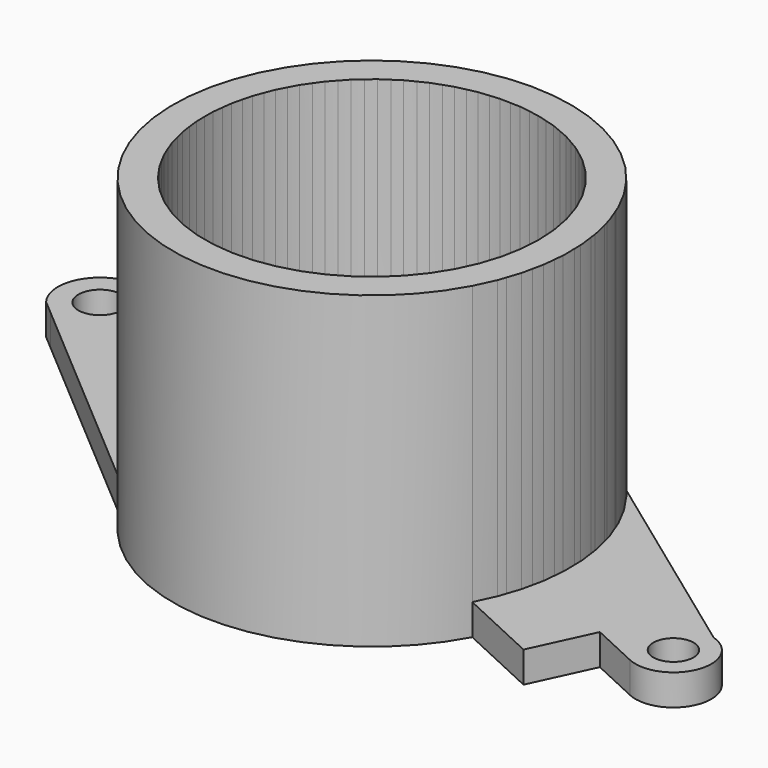
from build123d import *

# Parameters (mm, degrees)
F1_DEPTH    = 76.2
F2_DEPTH    = 31.75
F3_DEPTH    = 19.05
F4_DEPTH    = 7.62
F0_R        = 5.3237425143
F0_R_2      = 4.9534162061
F5_DEPTH    = 7.62
F3_FACE_W   = 8.5752790356
F3_FACE_H   = 19.05
F4_FACE_W   = 6.683049505
F4_FACE_H   = 7.62
F4_FACE_W_2 = 9.4312422922
F2_FACE_W   = 12.0087136189
F2_FACE_H   = 31.75


with BuildPart() as f1:
    # F0 (on Top) → F1 (new body)
    with BuildSketch(Plane.XY):
        with BuildLine():
            ThreePointArc((-34.7276751002, -22.1234954401), (-1.4817887575, 41.1492985412), (36.229000688, -19.5683412047))
            Line((36.229000688, -19.5683412047), (43.1768703502, -23.0616035662))
            ThreePointArc((43.1768703502, -23.0616035662), (48.6110092481, 5.5352725012), (36.79628914, 32.1383470443))
            ThreePointArc((36.79628914, 32.1383470443), (5.8376711749, 48.3955973291), (-28.0487168356, 39.767334425))
            Line((-28.0487168356, 39.767334425), (-33.4583891256, 35.3247881419))
            ThreePointArc((-33.4583891256, 35.3247881419), (-48.2846004863, 5.9882266817), (-41.1406287564, -26.0962563208))
            Line((-41.1406287564, -26.0962563208), (-34.7276751002, -22.1234954401))
        make_face()
    extrude(amount=F1_DEPTH)

    # F0 (on Top) → F5 (join)
    with BuildSketch(Plane.XY):
        with BuildLine():
            Line((-95.6883374581, 20.5591361861), (-41.1406287564, -26.0962563208))
            ThreePointArc((-41.1406287564, -26.0962563208), (-48.2846004863, 5.9882266817), (-33.4583891256, 35.3247881419))
            Line((-33.4583891256, 35.3247881419), (-56.8358898163, 16.1266513169))
            Line((-56.8358898163, 16.1266513169), (-84.1245320571, 37.6909004407))
            Line((-84.1245320571, 37.6909004407), (-84.4872106208, 37.977499196))
            ThreePointArc((-84.4872106208, 37.977499196), (-98.1053344669, 37.010885929), (-98.9951891018, 23.3875310917))
            Line((-98.9951891018, 23.3875310917), (-95.6883374581, 20.5591361861))
        make_face()
        with Locations((-90.7422751188, 29.6892039478)):
            Circle(F0_R, mode=Mode.SUBTRACT)
        with BuildLine():
            ThreePointArc((36.79628914, 32.1383470443), (48.6110092481, 5.5352725012), (43.1768703502, -23.0616035662))
            Line((43.1768703502, -23.0616035662), (63.2413849235, -32.3682539165))
            Line((63.2413849235, -32.3682539165), (70.1508525199, -17.47190474))
            Line((70.1508525199, -17.47190474), (81.9663336142, -22.9523538614))
            ThreePointArc((81.9663336142, -22.9523538614), (94.592598316, -17.8477131564), (88.663908183, -5.5867772071))
            Line((88.663908183, -5.5867772071), (36.79628914, 32.1383470443))
        make_face()
        with Locations((85.8907501141, -14.4915748388)):
            Circle(F0_R_2, mode=Mode.SUBTRACT)
    extrude(amount=F5_DEPTH)


with BuildPart() as f2:
    # F0 (on Top) → F2 (new body)
    with BuildSketch(Plane.XY):
        with BuildLine():
            ThreePointArc((-16.5150094424, -10.8409305661), (-0.5311619735, 19.7481436945), (17.0738827518, -9.9374966766))
            Line((17.0738827518, -9.9374966766), (27.8028379132, -15.3318199824))
            ThreePointArc((27.8028379132, -15.3318199824), (-1.0635461504, 31.7321819229), (-26.7138643474, -17.1590195415))
            Line((-26.7138643474, -17.1590195415), (-16.5150094424, -10.8409305661))
        make_face()
    extrude(amount=F2_DEPTH)


with BuildPart() as f3:
    # F0 (on Top) → F3 (new body)
    with BuildSketch(Plane.XY):
        with BuildLine():
            ThreePointArc((-3.4416213836, -3.0834438726), (0, 4.6208639737), (3.4416213836, -3.0834438726))
            Line((3.4416213836, -3.0834438726), (11.1030401824, -6.9354657479))
            ThreePointArc((11.1030401824, -6.9354657479), (-0.2350235497, 13.0890393216), (-10.8469003109, -7.3295934455))
            Line((-10.8469003109, -7.3295934455), (-3.4416213836, -3.0834438726))
        make_face()
    extrude(amount=F3_DEPTH)


with BuildPart() as f4:
    # F0 (on Top) → F4 (new body)
    with BuildSketch(Plane.XY):
        with BuildLine():
            ThreePointArc((-10.8469003109, -7.3295934455), (-0.2350235497, 13.0890393216), (11.1030401824, -6.9354657479))
            Line((11.1030401824, -6.9354657479), (17.0738827518, -9.9374966766))
            ThreePointArc((17.0738827518, -9.9374966766), (-0.5311619735, 19.7481436945), (-16.5150094424, -10.8409305661))
            Line((-16.5150094424, -10.8409305661), (-10.8469003109, -7.3295934455))
        make_face()
    extrude(amount=F4_DEPTH)


with BuildPart() as f4b:
    # F0 (on Top) → F4, piece 2 (new body)
    with BuildSketch(Plane.XY):
        with BuildLine():
            ThreePointArc((-26.7138643474, -17.1590195415), (-1.0635461504, 31.7321819229), (27.8028379132, -15.3318199824))
            Line((27.8028379132, -15.3318199824), (36.229000688, -19.5683412047))
            ThreePointArc((36.229000688, -19.5683412047), (-1.4817887575, 41.1492985412), (-34.7276751002, -22.1234954401))
            Line((-34.7276751002, -22.1234954401), (-26.7138643474, -17.1590195415))
        make_face()
    extrude(amount=F4_DEPTH)


with BuildPart() as f7:
    # F3_face (on face) → F7 (revolve)
    with BuildSketch(Plane(origin=(7.272330783, -5.0094548102, 9.525), x_dir=(0.8934308455, -0.4492007618, 0), z_dir=(-0.4492007618, -0.8934308455, 0))):
        Rectangle(F3_FACE_W, F3_FACE_H)
    revolve(axis=Axis((0, 0, 42.0711003244), (0, 0, 1)))


with BuildPart() as f7b:
    # F4_face (on face) → F7, piece 2 (revolve)
    with BuildSketch(Plane(origin=(14.0884614671, -8.4364812123, 3.81), x_dir=(0.8934308455, -0.4492007618, 0), z_dir=(-0.4492007618, -0.8934308455, 0))):
        Rectangle(F4_FACE_W, F4_FACE_H)
    revolve(axis=Axis((0, 0, 42.0711003244), (0, 0, 1)))


with BuildPart() as f7c:
    # F4_face (on face) → F7, piece 3 (revolve)
    with BuildSketch(Plane(origin=(14.0884614671, -8.4364812123, 3.81), x_dir=(0.8934308455, -0.4492007618, 0), z_dir=(-0.4492007618, -0.8934308455, 0))):
        with Locations((20.0658595175, 0)):
            Rectangle(F4_FACE_W_2, F4_FACE_H)
    revolve(axis=Axis((0, 0, 42.0711003244), (0, 0, 1)))


with BuildPart() as f7d:
    # F2_face (on face) → F7, piece 4 (revolve)
    with BuildSketch(Plane(origin=(22.4383603325, -12.6346583295, 15.875), x_dir=(0.8934308455, -0.4492007618, 0), z_dir=(-0.4492007618, -0.8934308455, 0))):
        Rectangle(F2_FACE_W, F2_FACE_H)
    revolve(axis=Axis((0, 0, 42.0711003244), (0, 0, 1)))


with BuildPart() as f7e:
    # F1_face (on face) → F7, piece 5 (revolve)
    with BuildSketch(Plane(origin=(39.7029355191, -21.3149723855, 38.1), x_dir=(0.8934308455, -0.4492007618, 0), z_dir=(-0.4492007618, -0.8934308455, 0))):
        Polygon((-3.8883085902, 38.1), (-3.8883085902, -38.1), (3.8883085902, -38.1), (3.8883085902, -30.48), (3.8883085902, 38.1), align=None)
    revolve(axis=Axis((0, 0, 42.0711003244), (0, 0, 1)))


solid = Compound([f1.part, f2.part, f3.part, f4.part, f4b.part, f7.part, f7b.part, f7c.part, f7d.part, f7e.part])
